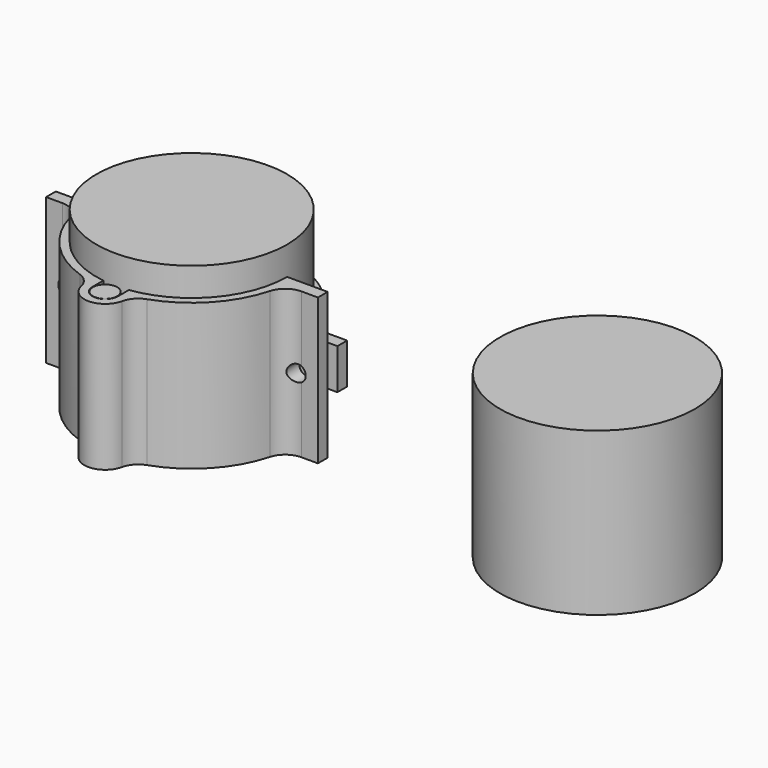
from build123d import *

# Parameters (mm, degrees)
SKETCH_R             = 23.5
PAD_DEPTH            = 43
SKETCH001_R          = 24
PAD001_DEPTH         = 40
SKETCH002_R          = 3
PAD002_DEPTH         = 36
PAD003_DEPTH         = 36
SKETCH007_R          = 2
POCKET001_DEPTH      = 31.801
POCKET001_DEPTH_BACK = -0.001
PAD004_DEPTH         = 10
SKETCH005_R          = 2
POCKET_DEPTH         = 25.50101
POCKET_DEPTH_BACK    = -0.001


with BuildPart() as p1:
    # Sketch → Pad (new body)
    with BuildSketch(Plane.XY):
        Circle(SKETCH_R)
    extrude(amount=PAD_DEPTH)


with BuildPart() as p_boiler:
    # Sketch001 → Pad001 (new body)
    with BuildSketch(Plane.XY):
        Circle(SKETCH001_R)
    extrude(amount=PAD001_DEPTH)


with BuildPart() as p_boiler_1:
    # Body001 placement: moved
    add(p_boiler.part.moved(Location((100, 0, 0))))


with BuildPart() as obj1:
    # Sketch002 → Pad002 (new body)
    with BuildSketch(Plane.XY):
        Circle(SKETCH002_R)
    extrude(amount=PAD002_DEPTH)


with BuildPart() as obj1_1:
    # Body002 placement: moved
    add(obj1.part.moved(Location((0, -26.7, 0))))


with BuildPart() as m1:
    # Sketch003 → Pad003 (new body)
    with BuildSketch(Plane.XY):
        with BuildLine():
            ThreePointArc((-24.607187, -6.688525), (-18.612121, -17.430976), (-8.285217, -24.116492))
            ThreePointArc((-5.02811, -27.763829), (-6.180364, -25.51482), (-8.285217, -24.116492))
            ThreePointArc((-5.02811, -27.763829), (0, -31.8), (5.02811, -27.763829))
            ThreePointArc((8.285217, -24.116492), (6.180364, -25.51482), (5.02811, -27.763829))
            ThreePointArc((8.285217, -24.116492), (18.612121, -17.430976), (24.607187, -6.688525))
            ThreePointArc((29.432125, -3), (26.395464, -4.02776), (24.607187, -6.688525))
            Line((33.5, -3), (29.432125, -3))
            Line((33.5, -3), (33.5, 0))
            Line((33.5, 0), (23.5, 0))
            ThreePointArc((3.15, -23.287926), (17.695692, -15.463263), (23.5, 0))
            Line((3.15, -26.65), (3.15, -23.287926))
            ThreePointArc((-3.15, -26.65), (0, -29.8), (3.15, -26.65))
            Line((-3.15, -26.65), (-3.15, -23.287926))
            ThreePointArc((-23.5, 0), (-17.695692, -15.463263), (-3.15, -23.287926))
            Line((-33.5, 0), (-23.5, 0))
            Line((-33.5, -3), (-33.5, 0))
            Line((-33.5, -3), (-29.432125, -3))
            ThreePointArc((-24.607187, -6.688525), (-26.395464, -4.02776), (-29.432125, -3))
        make_face()
    extrude(amount=PAD003_DEPTH)

    # Sketch007 (on Face9 of Pad003) → Pocket001 (cut, two sides)
    with BuildSketch(Plane(origin=(0, 0, 0), x_dir=(-1, 0, 0), z_dir=(0, 1, 0))) as pocket001_sk:
        with Locations((-28.5, 18)):
            Circle(SKETCH007_R)
        with Locations((28.5, 18)):
            Circle(SKETCH007_R)
    extrude(amount=-POCKET001_DEPTH, mode=Mode.SUBTRACT)
    extrude(pocket001_sk.sketch, amount=-POCKET001_DEPTH_BACK, mode=Mode.SUBTRACT)


with BuildPart() as m2:
    # Sketch004 → Pad004 (new body)
    with BuildSketch(Plane.XY):
        with BuildLine():
            ThreePointArc((23.307724, 3), (0, 23.5), (-23.307724, 3))
            Line((-33.5, 3), (-23.307724, 3))
            Line((-33.5, 3), (-33.5, 6))
            Line((-33.5, 6), (-28.44733, 6))
            ThreePointArc((-28.44733, 6), (-25.620352, 6.875901), (-23.783835, 9.196722))
            ThreePointArc((23.783835, 9.196722), (0, 25.50001), (-23.783835, 9.196722))
            ThreePointArc((23.783835, 9.196722), (25.620352, 6.875901), (28.44733, 6))
            Line((33.5, 6), (28.44733, 6))
            Line((33.5, 3), (33.5, 6))
            Line((23.307724, 3), (33.5, 3))
        make_face()
    extrude(amount=PAD004_DEPTH)

    # Sketch005 → Pocket (cut, two sides)
    with BuildSketch(Plane.XZ) as pocket_sk:
        with Locations((-28.403862, 5)):
            Circle(SKETCH005_R)
        with Locations((28.403862, 5)):
            Circle(SKETCH005_R)
    extrude(amount=-POCKET_DEPTH, mode=Mode.SUBTRACT)
    extrude(pocket_sk.sketch, amount=-POCKET_DEPTH_BACK, mode=Mode.SUBTRACT)


with BuildPart() as m2_1:
    # Body004 placement: moved
    add(m2.part.moved(Location((0, 0, 13))))


solid = Compound([p1.part, p_boiler_1.part, obj1_1.part, m1.part, m2_1.part])
